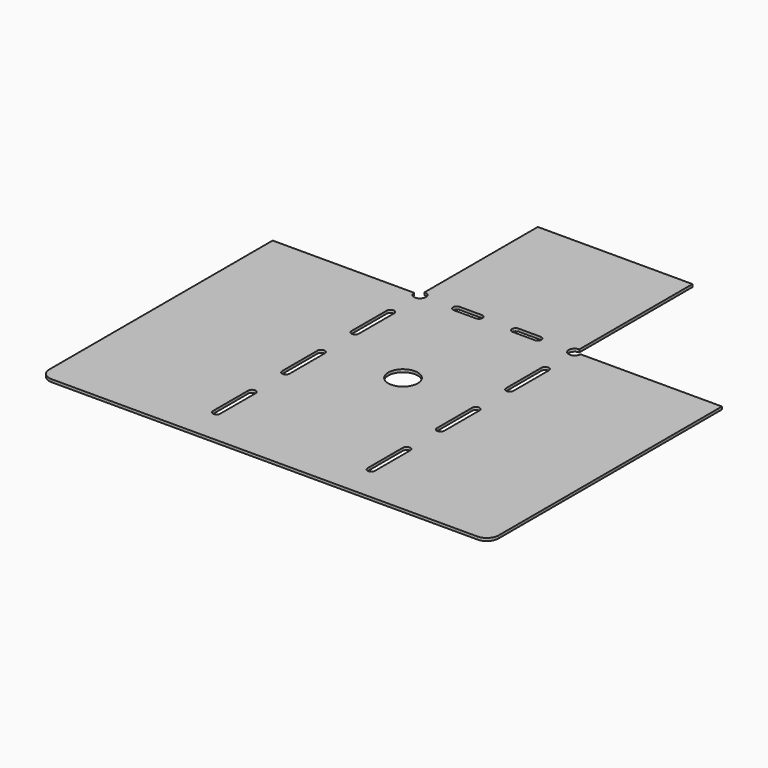
from build123d import *

# Parameters (mm, degrees)
F0_W     = 66.675
F0_H     = 125.4125
F0_W_2   = 63.5
F0_H_2   = 63.5
F1_DEPTH = 1.1811
F2_R     = 2.54
F2_R_2   = 6.35
F3_DEPTH = 1.1811
F4_R     = 5.08


with BuildPart() as f1:
    # F0 (on Top) → F1 (new body)
    with BuildSketch(Plane.XY):
        with Locations((0, 62.70625)):
            Rectangle(F0_W, F0_H)
        with Locations((-65.0875, 62.70625)):
            Rectangle(F0_W_2, F0_H)
        with Locations((65.0875, 62.70625)):
            Rectangle(F0_W_2, F0_H)
        with Locations((0, 157.1625)):
            Rectangle(F0_W, F0_H_2)
    extrude(amount=F1_DEPTH)

    # F2 (on face) → F3 (cut, through all)
    with BuildSketch(Plane.XY.offset(1.1811)):
        with BuildLine():
            ThreePointArc((-31.75, 109.5375), (-33.3375, 111.125), (-34.925, 109.5375))
            Line((-34.925, 109.5375), (-34.925, 90.4875))
            ThreePointArc((-34.925, 90.4875), (-33.3375, 88.9), (-31.75, 90.4875))
            Line((-31.75, 90.4875), (-31.75, 109.5375))
        make_face()
        with BuildLine():
            ThreePointArc((-31.75, 72.1995), (-33.3375, 73.787), (-34.925, 72.1995))
            Line((-34.925, 72.1995), (-34.925, 53.1495))
            ThreePointArc((-34.925, 53.1495), (-33.3375, 51.562), (-31.75, 53.1495))
            Line((-31.75, 53.1495), (-31.75, 72.1995))
        make_face()
        with BuildLine():
            ThreePointArc((-31.75, 34.8615), (-33.3375, 36.449), (-34.925, 34.8615))
            Line((-34.925, 34.8615), (-34.925, 15.8115))
            ThreePointArc((-34.925, 15.8115), (-33.3375, 14.224), (-31.75, 15.8115))
            Line((-31.75, 15.8115), (-31.75, 34.8615))
        make_face()
        with BuildLine():
            ThreePointArc((34.925, 34.8615), (33.3375, 36.449), (31.75, 34.8615))
            Line((31.75, 34.8615), (31.75, 15.8115))
            ThreePointArc((31.75, 15.8115), (33.3375, 14.224), (34.925, 15.8115))
            Line((34.925, 15.8115), (34.925, 34.8615))
        make_face()
        with BuildLine():
            ThreePointArc((34.925, 72.1995), (33.3375, 73.787), (31.75, 72.1995))
            Line((31.75, 72.1995), (31.75, 53.1495))
            ThreePointArc((31.75, 53.1495), (33.3375, 51.562), (34.925, 53.1495))
            Line((34.925, 53.1495), (34.925, 72.1995))
        make_face()
        with BuildLine():
            ThreePointArc((34.925, 109.5375), (33.3375, 111.125), (31.75, 109.5375))
            Line((31.75, 109.5375), (31.75, 90.4875))
            ThreePointArc((31.75, 90.4875), (33.3375, 88.9), (34.925, 90.4875))
            Line((34.925, 90.4875), (34.925, 109.5375))
        make_face()
        with BuildLine():
            ThreePointArc((-17.4625, 127), (-19.05, 125.4125), (-17.4625, 123.825))
            Line((-17.4625, 123.825), (-7.9375, 123.825))
            ThreePointArc((-7.9375, 123.825), (-6.35, 125.4125), (-7.9375, 127))
            Line((-7.9375, 127), (-17.4625, 127))
        make_face()
        with BuildLine():
            ThreePointArc((7.9375, 127), (6.35, 125.4125), (7.9375, 123.825))
            Line((7.9375, 123.825), (17.4625, 123.825))
            ThreePointArc((17.4625, 123.825), (19.05, 125.4125), (17.4625, 127))
            Line((17.4625, 127), (7.9375, 127))
        make_face()
        with Locations((-33.3375, 125.4125)):
            Circle(F2_R)
        with Locations((33.3375, 125.4125)):
            Circle(F2_R)
        with Locations((0, 74.6125)):
            Circle(F2_R_2)
    extrude(amount=-F3_DEPTH, mode=Mode.SUBTRACT)

    # F4
    f4_edges = [f1.edges().sort_by_distance(p)[0] for p in [
        (-96.8375, 0, 0.59055),
        (96.8375, 0, 0.59055),
    ]]
    fillet(f4_edges, radius=F4_R)


solid = f1.part
